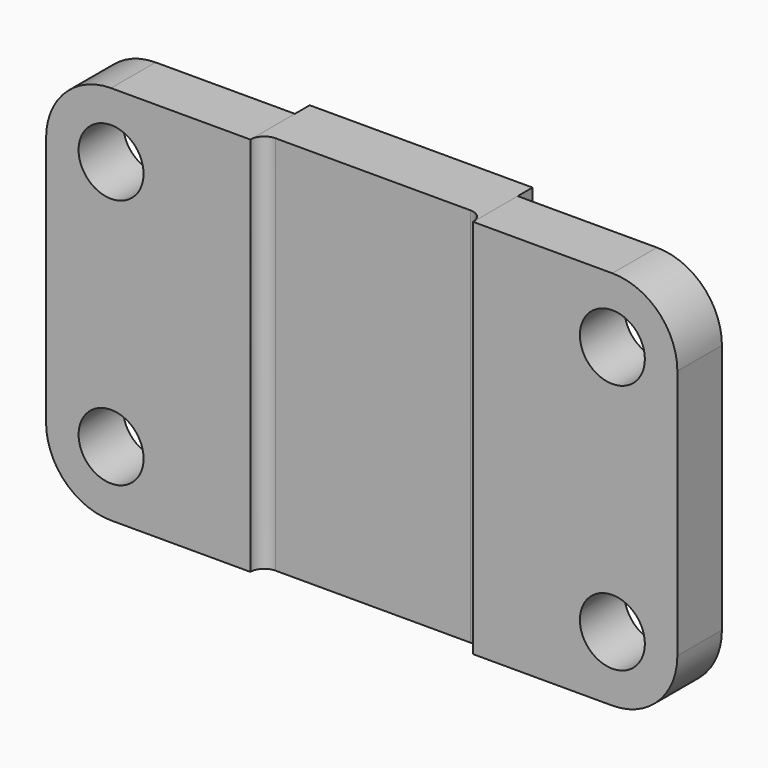
from build123d import *

# Parameters (mm, degrees)
F1_DEPTH      = 12
F0_W          = 48
F0_H          = 82
F2_DEPTH      = 12
F2_DEPTH_BACK = 4
F3_R          = 7
F4_DEPTH      = 16.001
F5_DEPTH      = 25
F7_DEPTH      = 82.001


with BuildPart() as f1:
    # F0 (on Front) → F1 (new body)
    with BuildSketch(Plane.XZ):
        with BuildLine():
            Line((-14, 54), (-14, 0))
            ThreePointArc((-14, 0), (-9.8994949366, -9.8994949366), (0, -14))
            Line((0, -14), (30, -14))
            Line((30, -14), (30, 68))
            Line((30, 68), (0, 68))
            ThreePointArc((0, 68), (-9.8994949366, 63.8994949366), (-14, 54))
        make_face()
    extrude(amount=F1_DEPTH)


with BuildPart() as f1b:
    # F0 (on Front) → F1, piece 2 (new body)
    with BuildSketch(Plane.XZ):
        with BuildLine():
            Line((78, 68), (78, -14))
            Line((78, -14), (108, -14))
            ThreePointArc((108, -14), (117.8994949366, -9.8994949366), (122, 0))
            Line((122, 0), (122, 54))
            ThreePointArc((122, 54), (117.8994949366, 63.8994949366), (108, 68))
            Line((108, 68), (78, 68))
        make_face()
    extrude(amount=F1_DEPTH)


with BuildPart() as f2:
    # F0 (on Front) → F2 (new body, two sides)
    with BuildSketch(Plane.XZ) as f2_sk:
        with Locations((54, 27)):
            Rectangle(F0_W, F0_H)
    extrude(amount=F2_DEPTH)
    extrude(f2_sk.sketch, amount=-F2_DEPTH_BACK)

    # F6 (on face) → F7 (cut, through all)
    with BuildSketch(Plane(origin=(0, 0, -14), x_dir=(1, 0, 0), z_dir=(0, 0, -1))):
        with BuildLine():
            Line((78, 12), (30, 12))
            ThreePointArc((30, 12), (30.8786796564, 9.8786796564), (33, 9))
            Line((33, 9), (75, 9))
            ThreePointArc((75, 9), (77.1213203436, 9.8786796564), (78, 12))
        make_face()
    extrude(amount=-F7_DEPTH, mode=Mode.SUBTRACT)


with BuildPart() as f4_tool:
    # F3 (on face) → F4 (new body, through all)
    with BuildSketch(Plane.XZ.offset(12)):
        Circle(F3_R)
        with Locations((0, 54)):
            Circle(F3_R)
        with Locations((108, 54)):
            Circle(F3_R)
        with Locations((108, 0)):
            Circle(F3_R)
    extrude(amount=-F4_DEPTH)


with BuildPart() as f1_1:
    add(f1.part)

    # F4: cut by f4_tool
    add(f4_tool.part, mode=Mode.SUBTRACT)

    # F3 (on face) → F5 (cut)
    with BuildSketch(Plane.XZ.offset(12)):
        with Locations((108, 54)):
            Circle(F3_R)
        with Locations((108, 0)):
            Circle(F3_R)
    extrude(amount=-F5_DEPTH, mode=Mode.SUBTRACT)


with BuildPart() as f1b_1:
    add(f1b.part)

    # F4: cut by f4_tool
    add(f4_tool.part, mode=Mode.SUBTRACT)


solid = Compound([f2.part, f1_1.part, f1b_1.part])
